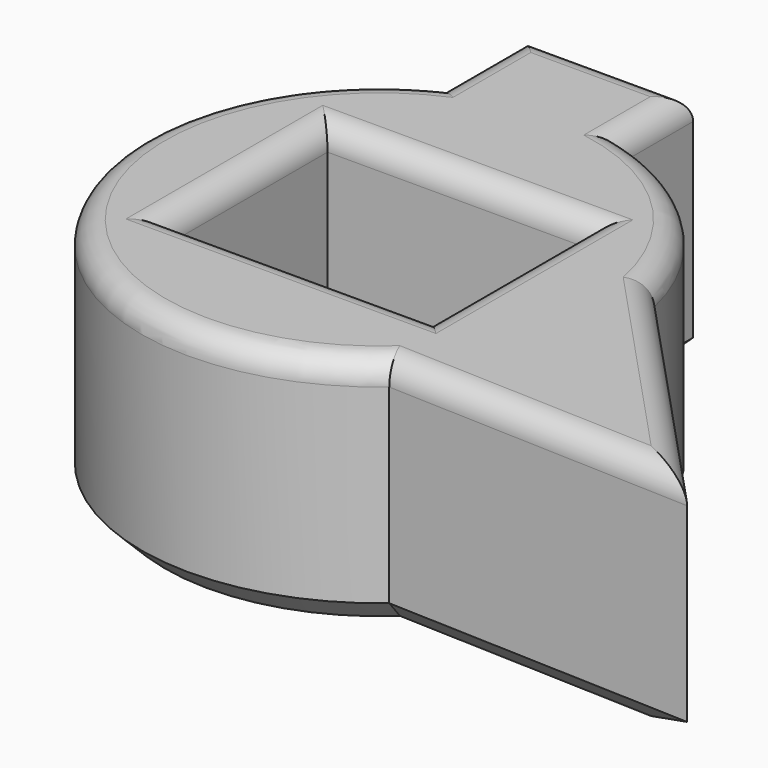
from build123d import *

# Parameters (mm, degrees)
F0_W     = 28.024344
F0_H     = 21.196416
F1_DEPTH = 25.4
F2_R     = 2.54
F3_SIZE  = 2.54


with BuildPart() as f1:
    # F0 (on Top) → F1 (new body)
    with BuildSketch(Plane.XY):
        with BuildLine():
            Line((-11.51223, 33.96108), (-11.51223, 22.641302))
            ThreePointArc((-11.51223, 22.641302), (-21.122827, -14.106246), (16.502721, -19.308552))
            Line((16.502721, -19.308552), (49.288545, -20.528002))
            Line((49.288545, -20.528002), (24.736057, 5.76953))
            ThreePointArc((24.736057, 5.76953), (18.164005, 17.754687), (6.331727, 24.598155))
            Line((6.331727, 24.598155), (6.331727, 33.96108))
            Line((6.331727, 33.96108), (-11.51223, 33.96108))
        make_face()
        Rectangle(F0_W, F0_H, mode=Mode.SUBTRACT)
    extrude(amount=F1_DEPTH)

    # F2
    f2_edges = [f1.edges().sort_by_distance(p)[0] for p in [
        (18.164005, 17.754687, 25.4),
        (6.331727, 29.279618, 25.4),
        (-2.590252, 33.96108, 25.4),
        (-11.51223, 28.301191, 25.4),
        (-21.122827, -14.106246, 25.4),
        (32.895633, -19.918277, 25.4),
        (37.012301, -7.379236, 25.4),
        (0, 10.598208, 25.4),
        (14.012172, 0, 25.4),
        (0, -10.598208, 25.4),
        (-14.012172, 0, 25.4),
    ]]
    fillet(f2_edges, radius=F2_R)

    # F3
    f3_edges = [f1.edges().sort_by_distance(p)[0] for p in [
        (18.164005, 17.754687, 0),
        (6.331727, 29.279618, 0),
        (-2.590252, 33.96108, 0),
        (-11.51223, 28.301191, 0),
        (-21.122827, -14.106246, 0),
        (32.895633, -19.918277, 0),
        (37.012301, -7.379236, 0),
        (0, 10.598208, 0),
        (14.012172, 0, 0),
        (0, -10.598208, 0),
        (-14.012172, 0, 0),
    ]]
    chamfer(f3_edges, length=F3_SIZE)


solid = f1.part
